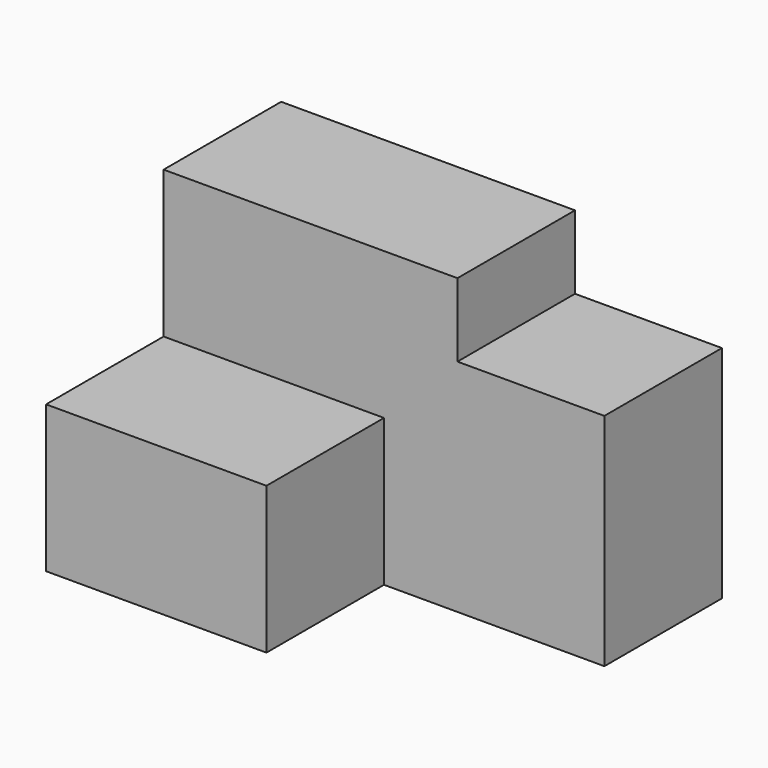
from build123d import *

# Parameters (mm, degrees)
F0_W     = 76.2
F0_H     = 25.4
F1_DEPTH = 38.1
F2_W     = 38.1
F2_H     = 25.4
F3_DEPTH = 25.4
F4_W     = 50.8
F4_H     = 25.4
F5_DEPTH = 12.7


with BuildPart() as f1:
    # F0 (on Top) → F1 (new body)
    with BuildSketch(Plane.XY):
        with Locations((1.447711, 12.8482)):
            Rectangle(F0_W, F0_H)
    extrude(amount=F1_DEPTH)

    # F2 (on face) → F3 (join)
    with BuildSketch(Plane.XZ.offset(-0.1482)):
        with Locations((-17.602289, 12.7)):
            Rectangle(F2_W, F2_H)
    extrude(amount=F3_DEPTH)

    # F4 (on face) → F5 (join)
    with BuildSketch(Plane.XY.offset(38.1)):
        with Locations((-11.252289, 12.8482)):
            Rectangle(F4_W, F4_H)
    extrude(amount=F5_DEPTH)


solid = f1.part
